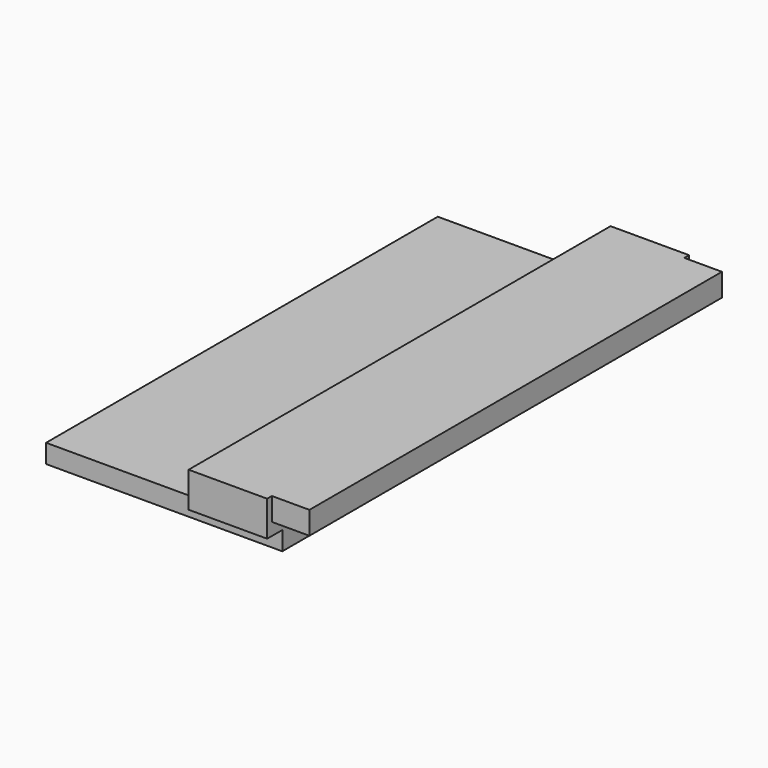
from build123d import *

# Parameters (mm, degrees)
F1_DEPTH  = 42.926
F2_R      = 15.9122903495
F3_DEPTH  = 217.932
F7_DEPTH  = 169.926
F9_DEPTH  = 157.734
F10_W     = 24.1890698671
F10_H     = 14.7000979632
F11_DEPTH = 166.116


with BuildPart() as f1:
    # F0 (on Front) → F1 (new body)
    with BuildSketch(Plane.XZ):
        Polygon((-3.4105652012, 57.7952452004), (-72.7279856801, 57.7952452004), (-73.0966925621, 3.0418548267), (-3.4105652012, 3.0418548267), align=None)
    extrude(amount=F1_DEPTH)


with BuildPart() as f3:
    # F2 (on Front) → F3 (new body)
    with BuildSketch(Plane.XZ):
        with Locations((-37.1474996209, -45.6278249621)):
            Circle(F2_R)
    extrude(amount=F3_DEPTH)


with BuildPart() as f7:
    # F6 (on face) → F7 (new body, symmetric)
    with BuildSketch(Plane.XZ):
        Polygon((76.4440670609, 28.0330423266), (25.8330944926, 28.0330423266), (25.8330944926, 5.3316229023), (76.4440670609, 5.3316229023), (76.4440670609, 13.3329443634), align=None)
    extrude(amount=F7_DEPTH, both=True)

    # F8 (on face) → F9 (join, symmetric)
    with BuildSketch(Plane.XZ):
        Polygon((76.4440670609, 5.3316229023), (25.8330944926, 5.3316229023), (-75.7609978318, 5.3316229023), (-75.7609978318, -6.763396319), (76.4440670609, -6.763396319), align=None)
    extrude(amount=F9_DEPTH, both=True)

    # F10 (on face) → F11 (join, symmetric)
    with BuildSketch(Plane.XZ):
        with Locations((88.5386019945, 20.682993345)):
            Rectangle(F10_W, F10_H)
    extrude(amount=F11_DEPTH, both=True)


solid = f7.part
